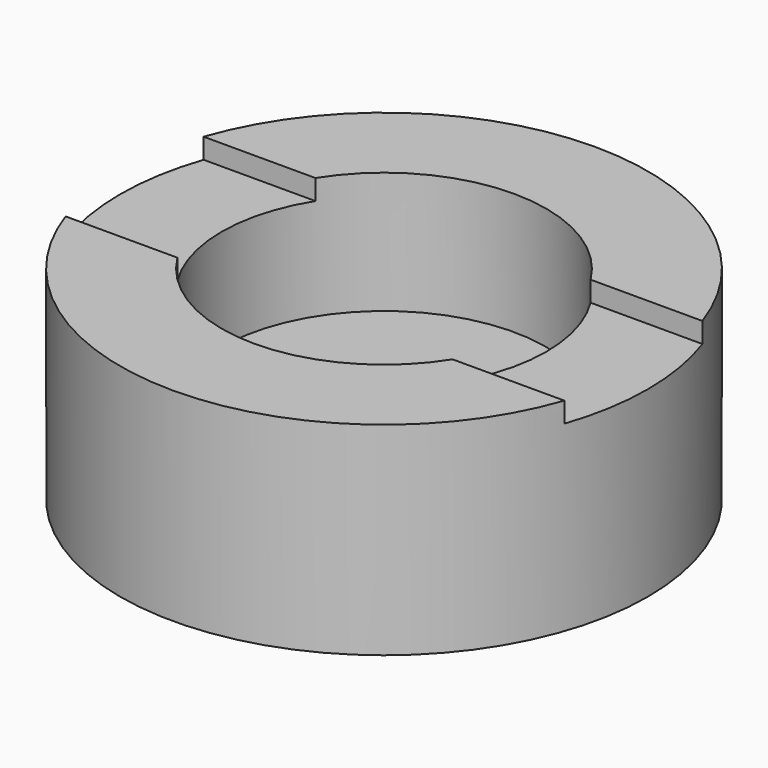
from build123d import *

# Parameters (mm, degrees)
F0_R     = 26
F0_R_2   = 16
F1_DEPTH = 20
F2_DEPTH = 12
F3_W     = 52
F3_H     = 17
F4_DEPTH = 2


with BuildPart() as f1:
    # F0 (on Top) → F1 (new body)
    with BuildSketch(Plane.XY):
        Circle(F0_R)
        Circle(F0_R_2, mode=Mode.SUBTRACT)
        Circle(F0_R_2)
    extrude(amount=-F1_DEPTH)

    # F0 (on Top) → F2 (cut)
    with BuildSketch(Plane.XY):
        Circle(F0_R_2)
    extrude(amount=-F2_DEPTH, mode=Mode.SUBTRACT)

    # F3 (on Top) → F4 (cut)
    with BuildSketch(Plane.XY):
        Rectangle(F3_W, F3_H)
    extrude(amount=-F4_DEPTH, mode=Mode.SUBTRACT)


solid = f1.part
